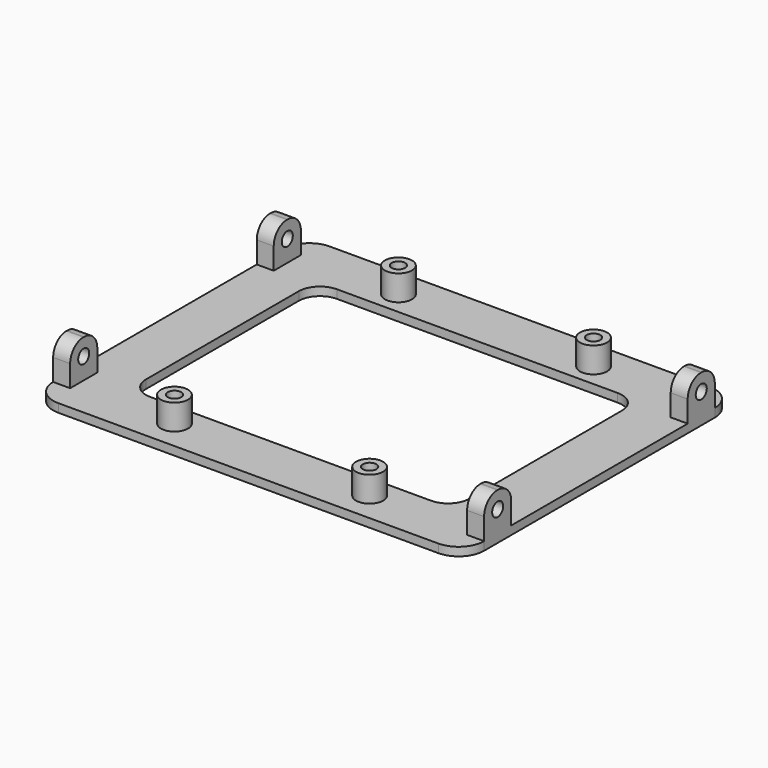
from build123d import *

# Parameters (mm, degrees)
SKETCH_W        = 101.6
SKETCH_H        = 80
PAD_DEPTH       = 2
SKETCH001_W     = 4
SKETCH001_H     = 8
PAD001_DEPTH    = 9
SKETCH002_R     = 1.625
POCKET_DEPTH    = 101.6
SKETCH003_R     = 1.625
POCKET001_DEPTH = 101.6
SKETCH004_R     = 3.2
SKETCH004_R_2   = 1.6
PAD002_DEPTH    = 6
SKETCH005_W     = 76.2
SKETCH005_H     = 55
POCKET002_DEPTH = 4
FILLET_R        = 3.9
FILLET001_R     = 6
FILLET002_R     = 5


with BuildPart() as part:
    # Sketch → Pad (new body)
    with BuildSketch(Plane.XY):
        Rectangle(SKETCH_W, SKETCH_H)
    extrude(amount=PAD_DEPTH)

    # Sketch001 (on Face6 of Pad) → Pad001 (join)
    with BuildSketch(Plane.XY.offset(2)):
        with Locations((-48.8, 30)):
            Rectangle(SKETCH001_W, SKETCH001_H)
        with Locations((48.8, 30)):
            Rectangle(SKETCH001_W, SKETCH001_H)
        with Locations((48.8, -30)):
            Rectangle(SKETCH001_W, SKETCH001_H)
        with Locations((-48.8, -30)):
            Rectangle(SKETCH001_W, SKETCH001_H)
    extrude(amount=PAD001_DEPTH)

    # Sketch002 (on Face8 of Pad001) → Pocket (cut)
    with BuildSketch(Plane(origin=(-50.8, 0, 0), x_dir=(0, -1, 0), z_dir=(-1, 0, 0))):
        with Locations((-30, 7)):
            Circle(SKETCH002_R)
    extrude(amount=-POCKET_DEPTH, mode=Mode.SUBTRACT)

    # Sketch003 (on Face7 of Pocket) → Pocket001 (cut)
    with BuildSketch(Plane(origin=(-50.8, 0, 0), x_dir=(0, -1, 0), z_dir=(-1, 0, 0))):
        with Locations((30, 7)):
            Circle(SKETCH003_R)
    extrude(amount=-POCKET001_DEPTH, mode=Mode.SUBTRACT)

    # Sketch004 (on Face5 of Pocket001) → Pad002 (join)
    with BuildSketch(Plane.XY.offset(2)):
        with Locations((-23, 33)):
            Circle(SKETCH004_R)
        with Locations((-23, 33)):
            Circle(SKETCH004_R_2, mode=Mode.SUBTRACT)
        with Locations((23, 33)):
            Circle(SKETCH004_R)
        with Locations((23, 33)):
            Circle(SKETCH004_R_2, mode=Mode.SUBTRACT)
        with Locations((23, -33)):
            Circle(SKETCH004_R)
        with Locations((23, -33)):
            Circle(SKETCH004_R_2, mode=Mode.SUBTRACT)
        with Locations((-23, -33)):
            Circle(SKETCH004_R)
        with Locations((-23, -33)):
            Circle(SKETCH004_R_2, mode=Mode.SUBTRACT)
    extrude(amount=PAD002_DEPTH)

    # Sketch005 (on Face5 of Pad002) → Pocket002 (cut)
    with BuildSketch(Plane.XY.offset(2)):
        Rectangle(SKETCH005_W, SKETCH005_H)
    extrude(amount=-POCKET002_DEPTH, mode=Mode.SUBTRACT)

    # Fillet
    fillet_edges = [part.edges().sort_by_distance(p)[0] for p in [
        (48.8, -34, 11),
        (48.8, -26, 11),
        (48.8, 26, 11),
        (48.8, 34, 11),
        (-48.8, 34, 11),
        (-48.8, 26, 11),
        (-48.8, -26, 11),
        (-48.8, -34, 11),
    ]]
    fillet(fillet_edges, radius=FILLET_R)

    # Fillet001
    fillet001_edges = [part.edges().sort_by_distance(p)[0] for p in [
        (-50.8, -40, 1),
        (50.8, -40, 1),
        (-50.8, 40, 1),
        (50.8, 40, 1),
    ]]
    fillet(fillet001_edges, radius=FILLET001_R)

    # Fillet002
    fillet002_edges = [part.edges().sort_by_distance(p)[0] for p in [
        (38.1, 27.5, 1),
        (38.1, -27.5, 1),
        (-38.1, 27.5, 1),
        (-38.1, -27.5, 1),
    ]]
    fillet(fillet002_edges, radius=FILLET002_R)


solid = part.part
